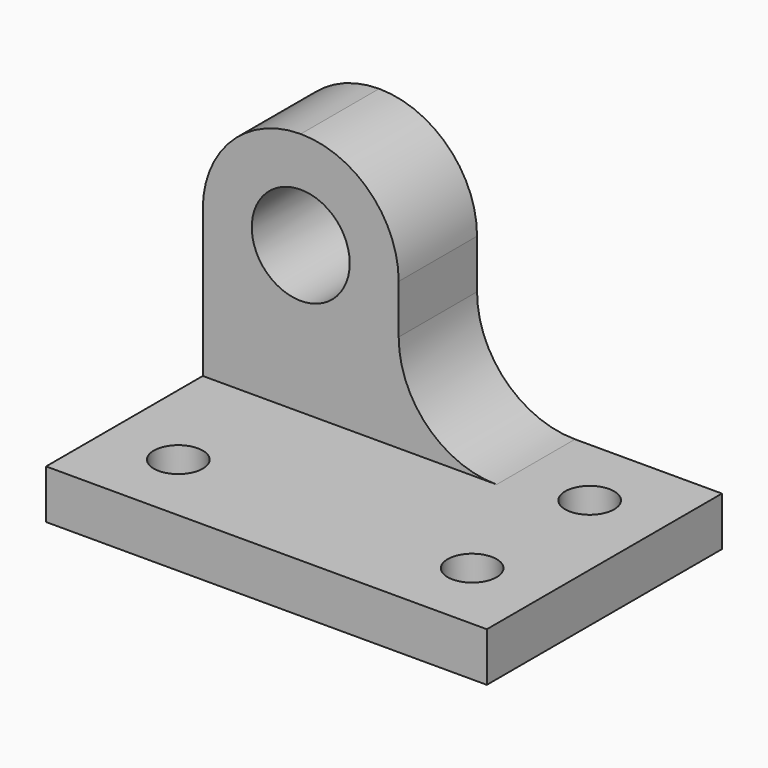
from build123d import *

# Parameters (mm, degrees)
F0_W      = 57.15
F0_H      = 38.1
F1_DEPTH  = 6.35
F2_W      = 25.4
F2_H      = 12.7
F3_DEPTH  = 31.75
F4_R      = 6.35
F5_DEPTH  = 25.4
F6_W      = 12.7
F6_H      = 12.7
F7_DEPTH  = 12.7
F9_DEPTH  = 25.4
F10_R     = 3.175
F11_DEPTH = 25.4


with BuildPart() as f1:
    # F0 (on Top) → F1 (new body)
    with BuildSketch(Plane.XY):
        with Locations((3.8689542562, -1.9632895614)):
            Rectangle(F0_W, F0_H)
    extrude(amount=F1_DEPTH)

    # F2 (on face) → F3 (join)
    with BuildSketch(Plane.XY.offset(6.35)):
        with Locations((-12.0060457438, 10.7367104386)):
            Rectangle(F2_W, F2_H)
    extrude(amount=F3_DEPTH)

    # F4 (on face) → F5 (cut)
    with BuildSketch(Plane.XZ.offset(-4.3867104386)):
        with BuildLine():
            ThreePointArc((-24.7060457438, 25.4), (-20.9863018648, 34.380256121), (-12.0060457438, 38.0999999999))
            Line((-12.0060457438, 38.1), (-24.7060457438, 38.1))
            Line((-24.7060457438, 38.1), (-24.7060457438, 25.4))
        make_face()
        with BuildLine():
            ThreePointArc((-12.0060457438, 38.0999999999), (-3.0257896228, 34.3802561209), (0.6939542562, 25.3999999999))
            Line((0.6939542562, 25.3999999999), (0.6939542562, 38.1))
            Line((0.6939542562, 38.1), (-12.0060457438, 38.1))
        make_face()
        with Locations((-12.0060457438, 25.3999999999)):
            Circle(F4_R)
    extrude(amount=-F5_DEPTH, mode=Mode.SUBTRACT)

    # F6 (on face) → F7 (join)
    with BuildSketch(Plane.XY.offset(6.35)):
        with Locations((7.0439542562, 10.7367104386)):
            Rectangle(F6_W, F6_H)
    extrude(amount=F7_DEPTH)

    # F8 (on face) → F9 (cut)
    with BuildSketch(Plane.XZ.offset(-4.3867104386)):
        with BuildLine():
            Line((13.3939542562, 19.05), (0.6939542562, 19.05))
            ThreePointArc((0.6939542562, 19.05), (4.4136981351, 10.0697438789), (13.3939542562, 6.35))
            Line((13.3939542562, 6.35), (13.3939542562, 19.05))
        make_face()
    extrude(amount=-F9_DEPTH, mode=Mode.SUBTRACT)

    # F10 (on face) → F11 (cut)
    with BuildSketch(Plane.XY.offset(6.35)):
        with Locations((-15.1810457438, -11.4882895614)):
            Circle(F10_R)
        with Locations((22.9189542562, -11.4882895614)):
            Circle(F10_R)
        with Locations((22.9189542562, 7.5617104386)):
            Circle(F10_R)
    extrude(amount=-F11_DEPTH, mode=Mode.SUBTRACT)


solid = f1.part
